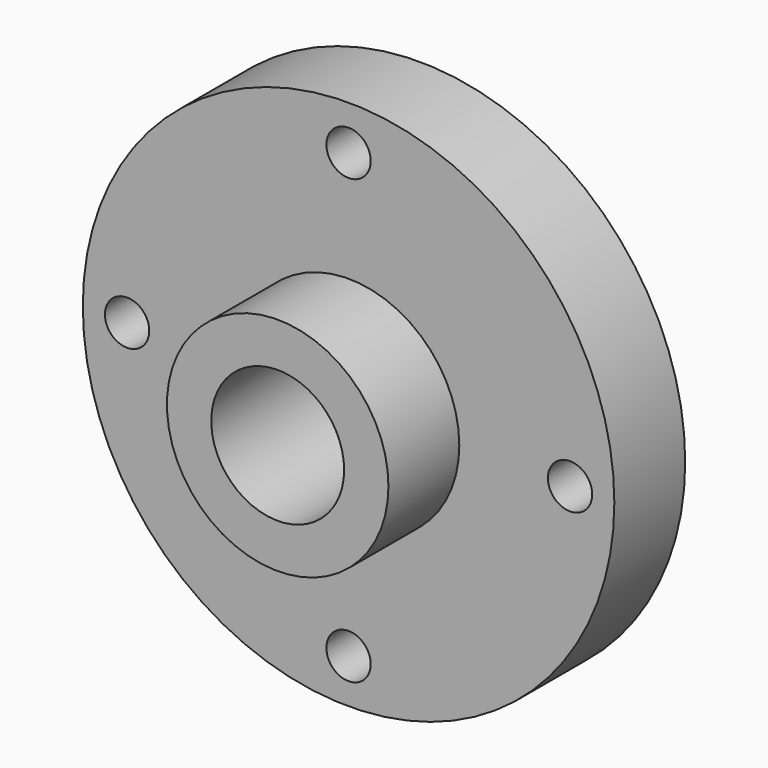
from build123d import *

# Parameters (mm, degrees)
F0_R     = 38.1
F0_R_2   = 3.175
F1_DEPTH = 12.7
F2_R     = 15.875
F3_DEPTH = 12.7
F4_R     = 9.525
F5_DEPTH = 25.401


with BuildPart() as f1:
    # F0 (on Front) → F1 (new body)
    with BuildSketch(Plane.XZ):
        Circle(F0_R)
        with Locations((0, -31.75)):
            Circle(F0_R_2, mode=Mode.SUBTRACT)
        with Locations((-31.75, 0)):
            Circle(F0_R_2, mode=Mode.SUBTRACT)
        with Locations((31.75, 0)):
            Circle(F0_R_2, mode=Mode.SUBTRACT)
        with Locations((0, 31.75)):
            Circle(F0_R_2, mode=Mode.SUBTRACT)
    extrude(amount=F1_DEPTH)

    # F2 (on face) → F3 (join)
    with BuildSketch(Plane.XZ.offset(12.7)):
        Circle(F2_R)
    extrude(amount=F3_DEPTH)

    # F4 (on face) → F5 (cut, through all)
    with BuildSketch(Plane.XZ.offset(25.4)):
        Circle(F4_R)
    extrude(amount=-F5_DEPTH, mode=Mode.SUBTRACT)


solid = f1.part
